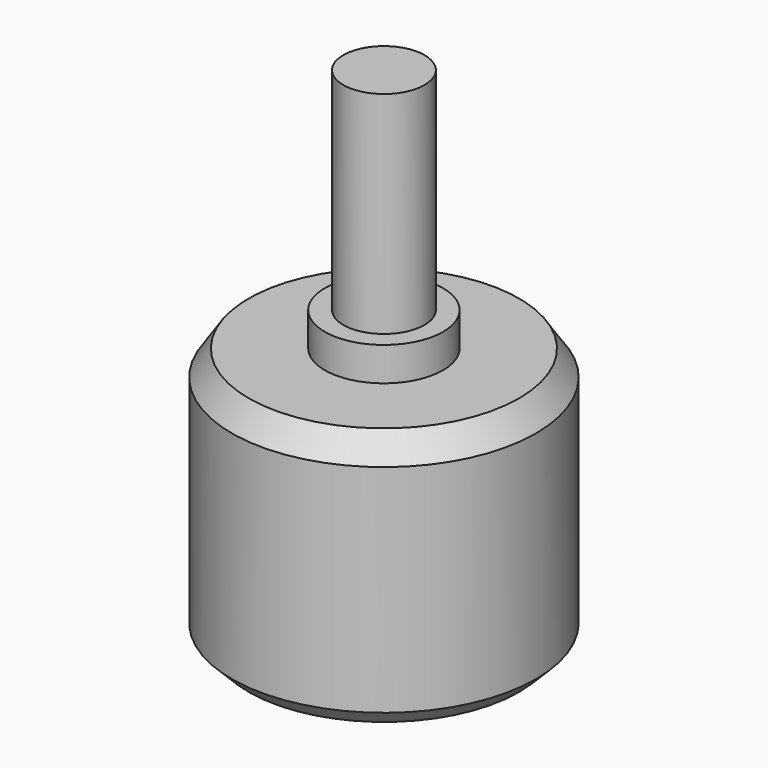
from build123d import *

# Parameters (mm, degrees)
F0_R     = 9
F1_DEPTH = 15.3
F2_SIZE  = 1
F3_SIZE2 = 1.5
F3_SIZE  = 1
F4_R     = 3.5
F5_DEPTH = 2
F6_R     = 2.4
F7_DEPTH = 12.5
F8_R     = 1
F9_DEPTH = 1.5


with BuildPart() as f1:
    # F0 (on Top) → F1 (new body)
    with BuildSketch(Plane.XY):
        Circle(F0_R)
    extrude(amount=F1_DEPTH)

    # F2
    f2_edges = [f1.edges().sort_by_distance(p)[0] for p in [
        (-9, 0, 0),
    ]]
    chamfer(f2_edges, length=F2_SIZE)

    # F3
    f3_edges = [f1.edges().sort_by_distance(p)[0] for p in [
        (-9, 0, 15.3),
    ]]
    f3_side = f1.faces().sort_by_distance((0, 0, 15.3))[0]
    chamfer(f3_edges, length=F3_SIZE, length2=F3_SIZE2, reference=f3_side)

    # F4 (on face) → F5 (join)
    with BuildSketch(Plane.XY.offset(15.3)):
        Circle(F4_R)
    extrude(amount=F5_DEPTH)

    # F6 (on face) → F7 (join)
    with BuildSketch(Plane.XY.offset(17.3)):
        Circle(F6_R)
    extrude(amount=F7_DEPTH)

    # F8 (on face) → F9 (join)
    with BuildSketch(Plane(origin=(0, 0, 0), x_dir=(1, 0, 0), z_dir=(0, 0, -1))):
        Circle(F8_R)
    extrude(amount=F9_DEPTH)


solid = f1.part
